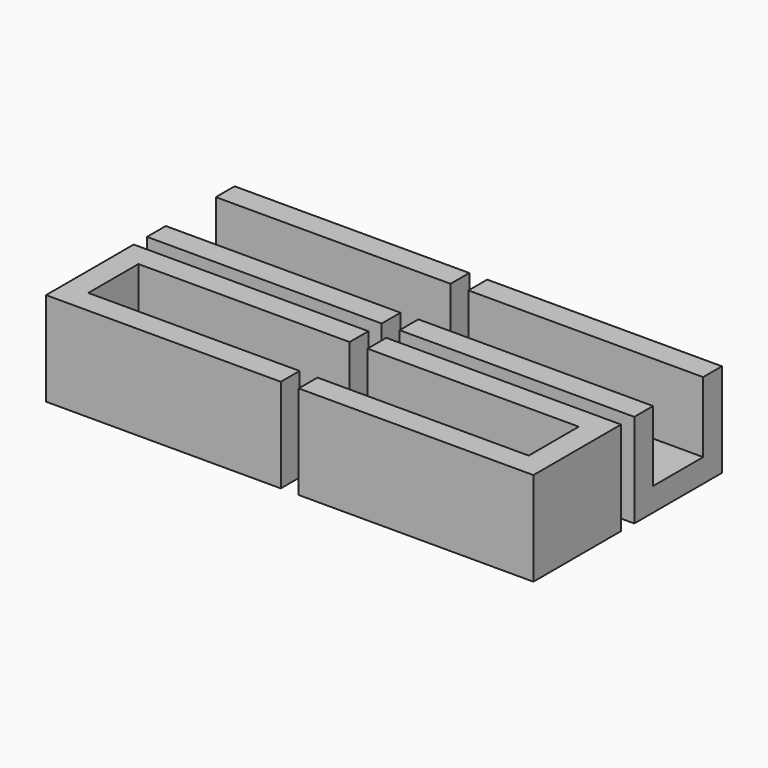
from build123d import *

# Parameters (mm, degrees)
F0_W     = 30
F0_H     = 3
F1_DEPTH = 12
F0_H_2   = 8
F0_R     = 1
F2_DEPTH = 3
F3_SIZE  = 2
F5_W     = 3
F5_H     = 8
F6_DEPTH = 9


with BuildPart() as f1:
    # F0 (on Top) → F1 (new body)
    with BuildSketch(Plane.XY):
        with Locations((-27.0454059579, -8.3110532425)):
            Rectangle(F0_W, F0_H)
    extrude(amount=F1_DEPTH)



with BuildPart() as f1b:
    # F0 (on Top) → F1, piece 2 (new body)
    with BuildSketch(Plane.XY):
        with Locations((-27.0454059579, -19.3110532425)):
            Rectangle(F0_W, F0_H)
    extrude(amount=F1_DEPTH)


with BuildPart() as f1_1:
    add(f1.part)

    add(f1b.part)  # F2 merges F1b
    # F0 (on Top) → F2 (join)
    with BuildSketch(Plane.XY):
        with Locations((-27.0454059579, -13.8110532425)):
            Rectangle(F0_W, F0_H_2)
        with Locations((-27.0454059579, -13.8110532425)):
            Circle(F0_R, mode=Mode.SUBTRACT)
    extrude(amount=F2_DEPTH)

    # F3
    f3_edges = [f1_1.edges().sort_by_distance(p)[0] for p in [
        (-28.045406, -13.811053, 3),
    ]]
    chamfer(f3_edges, length=F3_SIZE)


with BuildPart() as f4_1:
    # F4: instance of F1
    add(f1_1.part.mirror(Plane.XZ))


with BuildPart() as f1_2:
    add(f1_1.part)

    # F5 (on face) → F6 (join)
    with BuildSketch(Plane.XY.offset(3)):
        with Locations((-40.5454059579, -13.8110532425)):
            Rectangle(F5_W, F5_H)
    extrude(amount=F6_DEPTH)


with BuildPart() as f7_1:
    # F7: instance of F1
    add(f1_2.part.mirror(Plane.YZ))


with BuildPart() as f7_2:
    # F7: instance of F4_1
    add(f4_1.part.mirror(Plane.YZ))


with BuildPart() as f7_1_1:
    # F8: moved
    add(f7_1.part.moved(Location((-21.8, 0, 0))))


with BuildPart() as f7_2_1:
    # F9: moved
    add(f7_2.part.moved(Location((-21.8, 0, 0))))


with BuildPart() as f1_3:
    # F10: moved
    add(f1_2.part.moved(Location((0, 11.5, 0))))


with BuildPart() as f7_1_2:
    # F10: moved
    add(f7_1_1.part.moved(Location((0, 11.5, 0))))


solid = Compound([f4_1.part, f7_2_1.part, f1_3.part, f7_1_2.part])
